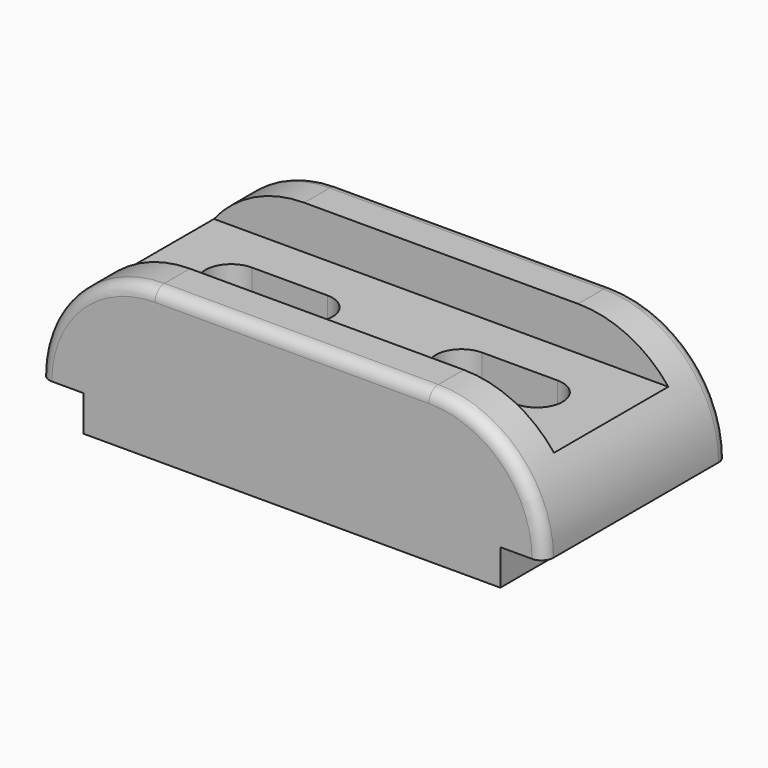
from build123d import *

# Parameters (mm, degrees)
F1_DEPTH = 29
F2_W     = 184.799997
F2_H     = 36
F3_DEPTH = 11
F5_DEPTH = 27.001
F6_R     = 3


with BuildPart() as f1:
    # F0 (on Front) → F1 (new body, symmetric)
    with BuildSketch(Plane.XZ):
        with BuildLine():
            ThreePointArc((-34.5, 29), (-55.006097, 20.506097), (-63.5, 0))
            Line((-63.5, 0), (-52.5, 0))
            Line((-52.5, 0), (-52.5, -9))
            Line((-52.5, -9), (52.5, -9))
            Line((52.5, -9), (52.5, 0))
            Line((52.5, 0), (63.5, 0))
            ThreePointArc((63.5, 0), (55.006097, 20.506097), (34.5, 29))
            Line((34.5, 29), (-34.5, 29))
        make_face()
    extrude(amount=F1_DEPTH, both=True)

    # F2 (on face) → F3 (cut)
    with BuildSketch(Plane.XY.offset(29)):
        with Locations((-0.382677, 0)):
            Rectangle(F2_W, F2_H)
    extrude(amount=-F3_DEPTH, mode=Mode.SUBTRACT)

    # F4 (on face) → F5 (cut, through all)
    with BuildSketch(Plane.XY.offset(18)):
        with BuildLine():
            Line((-19.499998, 6.5), (-38.5, 6.5))
            ThreePointArc((-38.5, 6.5), (-45, 0), (-38.5, -6.5))
            Line((-38.5, -6.5), (-19.5, -6.5))
            ThreePointArc((-19.5, -6.5), (-13, -1e-06), (-19.499998, 6.5))
        make_face()
        with BuildLine():
            Line((38.5, 6.5), (19.499998, 6.5))
            ThreePointArc((19.499998, 6.5), (13, -1e-06), (19.5, -6.5))
            Line((19.5, -6.5), (38.5, -6.5))
            ThreePointArc((38.5, -6.5), (45, 0), (38.5, 6.5))
        make_face()
    extrude(amount=-F5_DEPTH, mode=Mode.SUBTRACT)

    # F6
    f6_edges = [f1.edges().sort_by_distance(p)[0] for p in [
        (0, -29, 29),
        (0, 29, 29),
    ]]
    fillet(f6_edges, radius=F6_R)


solid = f1.part
